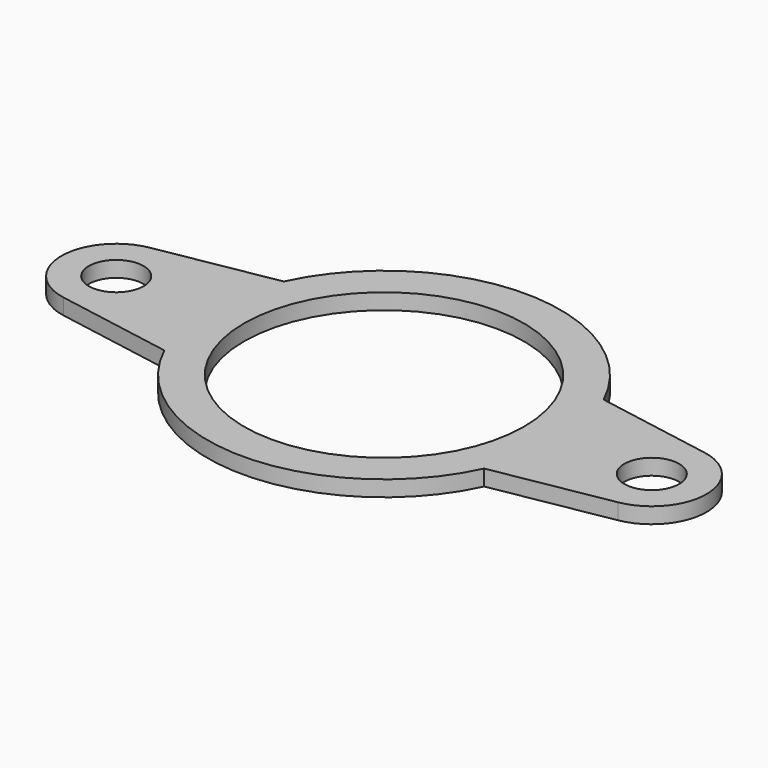
from build123d import *

# Parameters (mm, degrees)
SKETCH044_R   = 14.5
SKETCH044_R_2 = 11.5
PAD026_DEPTH  = 1.3
SKETCH045_R   = 2.25
PAD027_DEPTH  = 1.3


with BuildPart() as part:
    # Sketch044 → Pad026 (new body)
    with BuildSketch(Plane.XY):
        Circle(SKETCH044_R)
        Circle(SKETCH044_R_2, mode=Mode.SUBTRACT)
    extrude(amount=PAD026_DEPTH)

    # Sketch045 → Pad027 (join)
    with BuildSketch(Plane.XY):
        with BuildLine():
            Line((-22.781417, 4.431635), (-12, 6.33269))
            Line((-12, 6.33269), (-12, -6.33269))
            Line((-12, -6.33269), (-22.781417, -4.431635))
            ThreePointArc((-22.781417, 4.431635), (-26.5, 0), (-22.781417, -4.431635))
        make_face()
        with Locations((-22, 0)):
            Circle(SKETCH045_R, mode=Mode.SUBTRACT)
    pad027 = extrude(amount=PAD027_DEPTH)

    # Mirrored003: Pad027 across Sketch045 V_Axis
    add(pad027.mirror(Plane(origin=(0, 0, 0), x_dir=(0, 0, 1), z_dir=(1, 0, 0))))


with BuildPart() as part_1:
    # Body026 placement: moved
    add(part.part.moved(Location((0, -22.5, 103.8))))


solid = part_1.part
